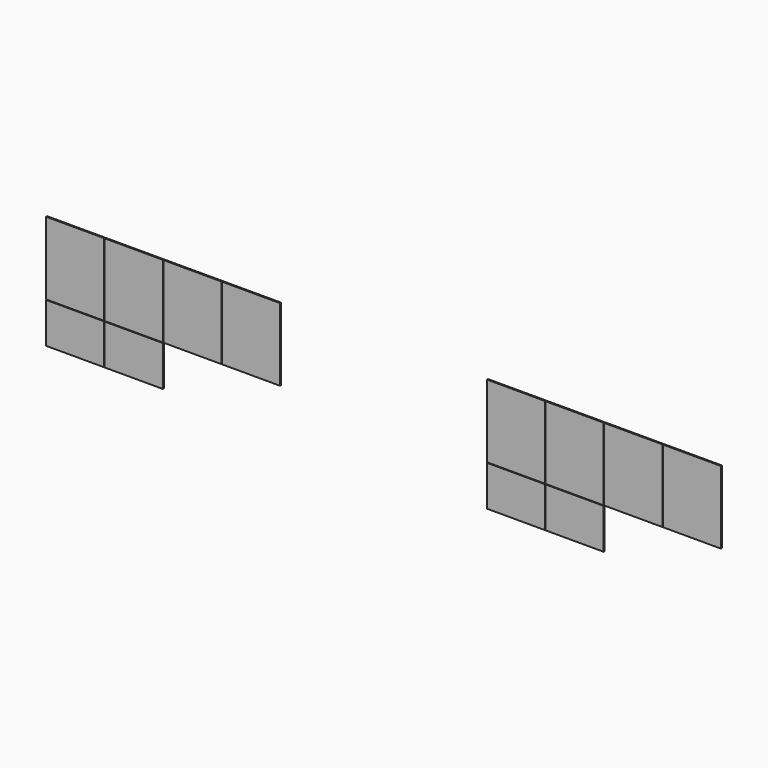
from build123d import *

# Parameters (mm, degrees)
F0_W     = 575
F0_H     = 720
F0_H_2   = 400
F1_DEPTH = 12


with BuildPart() as f1:
    # F0 (on Front) → F1 (new body)
    with BuildSketch(Plane.XZ):
        with Locations((287.5, 840)):
            Rectangle(F0_W, F0_H)
        with Locations((867.5, 840)):
            Rectangle(F0_W, F0_H)
        with Locations((1447.5, 840)):
            Rectangle(F0_W, F0_H)
        with Locations((2027.5, 840)):
            Rectangle(F0_W, F0_H)
        with Locations((287.5, 275)):
            Rectangle(F0_W, F0_H_2)
        with Locations((867.5, 275)):
            Rectangle(F0_W, F0_H_2)
        with Locations((4651.474571, 840)):
            Rectangle(F0_W, F0_H)
        with Locations((5231.474571, 840)):
            Rectangle(F0_W, F0_H)
        with Locations((5811.474571, 840)):
            Rectangle(F0_W, F0_H)
        with Locations((6391.474571, 840)):
            Rectangle(F0_W, F0_H)
        with Locations((4651.474571, 275)):
            Rectangle(F0_W, F0_H_2)
        with Locations((5231.474571, 275)):
            Rectangle(F0_W, F0_H_2)
    extrude(amount=F1_DEPTH)


solid = f1.part
